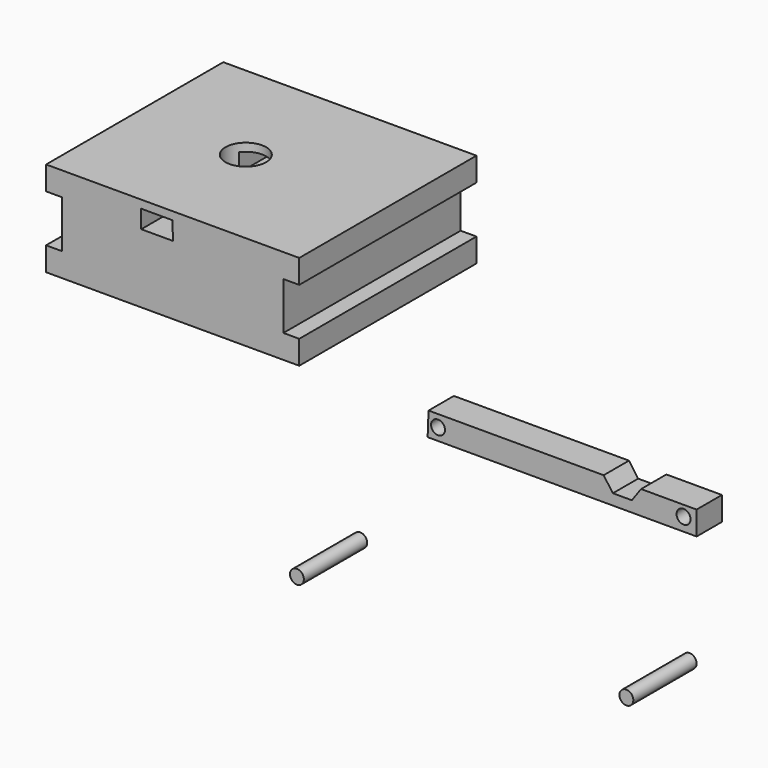
from build123d import *

# Parameters (mm, degrees)
F0_W      = 25.4
F0_H      = 19.05
F1_DEPTH  = 177.8
F3_DEPTH  = 177.8
F4_R      = 16.31295
F5_DEPTH  = 50.8
F7_DEPTH  = 25.4
F9_DEPTH  = 25.4
F10_R     = 5.588
F11_DEPTH = 25.4
F12_R     = 5.588
F13_DEPTH = 25.4
F14_R     = 5.588
F15_DEPTH = 63.5
F16_R     = 5.588
F17_DEPTH = 63.5


with BuildPart() as f1:
    # F0 (on Front) → F1 (new body)
    with BuildSketch(Plane.XZ):
        Polygon((-58.847912, 57.15), (-58.847912, 19.05), (118.952088, 19.05), (118.952088, 57.15), (42.752088, 57.15), (42.752088, 38.1), (17.352088, 38.1), (17.352088, 57.15), align=None)
        Polygon((-71.547912, 19.05), (-71.547912, 0), (131.652088, 0), (131.652088, 19.05), (118.952088, 19.05), (-58.847912, 19.05), align=None)
        Polygon((-71.547912, 57.15), (-58.847912, 57.15), (17.352088, 57.15), (42.752088, 57.15), (118.952088, 57.15), (131.652088, 57.15), (131.652088, 76.2), (-71.547912, 76.163504), align=None)
        with Locations((30.052088, 47.625)):
            Rectangle(F0_W, F0_H)
    extrude(amount=F1_DEPTH)

    # F2 (on face) → F3 (cut)
    with BuildSketch(Plane.XZ.offset(177.8)):
        Polygon((29.984076, 69.753274), (4.835864, 69.753274), (4.835864, 55.244692), (30.235864, 55.244692), align=None)
    extrude(amount=-F3_DEPTH, mode=Mode.SUBTRACT)

    # F4 (on face) → F5 (cut)
    with BuildSketch(Plane(origin=(-0.013682, 0, 76.176352), x_dir=(1, 0, 0.00018), z_dir=(-0.00018, 0, 1))):
        with Locations((17.938372, -89.231625)):
            Circle(F4_R)
    extrude(amount=-F5_DEPTH, mode=Mode.SUBTRACT)


with BuildPart() as f7:
    # F6 (on face) → F7 (new body)
    with BuildSketch(Plane.XZ.offset(177.8)):
        Polygon((255.760223, 19.05), (255.02494, 0), (470.92494, 0), (470.92494, 19.05), align=None)
    extrude(amount=F7_DEPTH)

    # F8 (on face) → F9 (cut)
    with BuildSketch(Plane.XZ.offset(203.2)):
        Polygon((426.342051, 19.05), (396.315972, 19.05), (403.709011, 8.723676), (418.949011, 8.723676), align=None)
    extrude(amount=-F9_DEPTH, mode=Mode.SUBTRACT)

    # F10 (on face) → F11 (cut)
    with BuildSketch(Plane.XZ.offset(203.2)):
        with Locations((263.383478, 9.607533)):
            Circle(F10_R)
    extrude(amount=-F11_DEPTH, mode=Mode.SUBTRACT)

    # F12 (on face) → F13 (cut)
    with BuildSketch(Plane.XZ.offset(203.2)):
        with Locations((460.46108, 10.592921)):
            Circle(F12_R)
    extrude(amount=-F13_DEPTH, mode=Mode.SUBTRACT)


with BuildPart() as f15:
    # F14 (on face) → F15 (new body)
    with BuildSketch(Plane.XZ.offset(203.2)):
        with Locations((200.901389, -90.429612)):
            Circle(F14_R)
    extrude(amount=F15_DEPTH)


with BuildPart() as f17:
    # F16 (on face) → F17 (new body)
    with BuildSketch(Plane.XZ.offset(203.2)):
        with Locations((465.33694, -89.76534)):
            Circle(F16_R)
    extrude(amount=F17_DEPTH)


solid = Compound([f1.part, f7.part, f15.part, f17.part])
